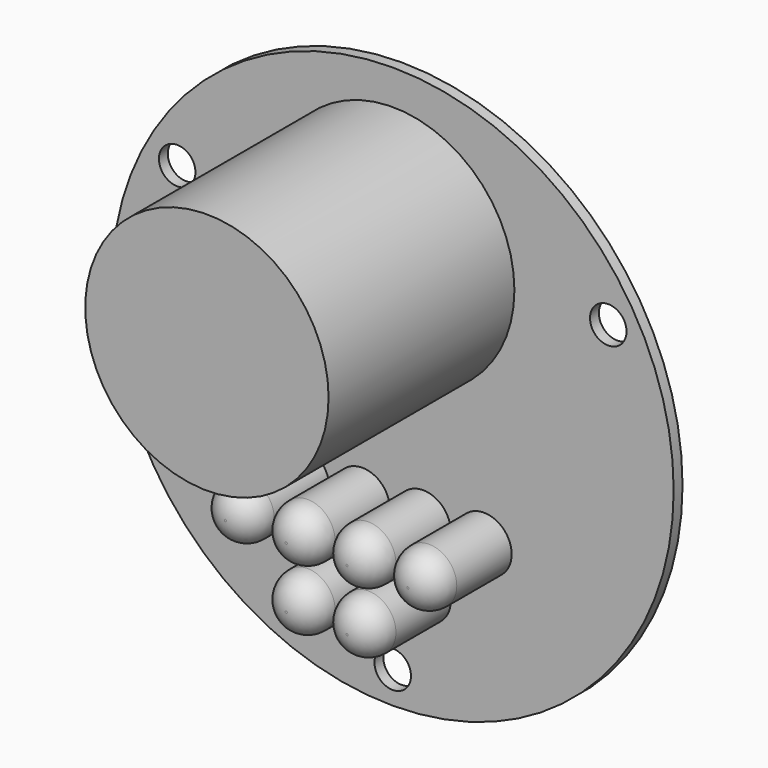
from build123d import *

# Parameters (mm, degrees)
F0_R      = 25.4
F1_DEPTH  = 1
F2_R      = 1.65
F3_DEPTH  = 1.001
F4_R      = 11
F5_DEPTH  = 21
F6_R      = 2.5
F7_DEPTH  = 8.6
F8_R      = 2.4
F9_W      = 15.24
F9_H      = 2.54
F10_DEPTH = 8.6


with BuildPart() as f1:
    # F0 (on Front) → F1 (new body)
    with BuildSketch(Plane.XZ):
        Circle(F0_R)
    extrude(amount=F1_DEPTH)

    # F2 (on face) → F3 (cut, through all)
    with BuildSketch(Plane.XZ.offset(1)):
        with Locations((-19.485572, 11.25)):
            Circle(F2_R)
        with Locations((0, -22.5)):
            Circle(F2_R)
        with Locations((19.485572, 11.25)):
            Circle(F2_R)
    extrude(amount=-F3_DEPTH, mode=Mode.SUBTRACT)

    # F4 (on face) → F5 (join)
    with BuildSketch(Plane.XZ.offset(1)):
        with Locations((0, 11.25)):
            Circle(F4_R)
    extrude(amount=F5_DEPTH)

    # F6 (on face) → F7 (join)
    with BuildSketch(Plane.XZ.offset(1)):
        with Locations((-8.25, -9.85)):
            Circle(F6_R)
        with Locations((-2.75, -15.35)):
            Circle(F6_R)
        with Locations((-2.75, -9.85)):
            Circle(F6_R)
        with Locations((2.75, -15.35)):
            Circle(F6_R)
        with Locations((8.25, -9.85)):
            Circle(F6_R)
        with Locations((2.75, -9.85)):
            Circle(F6_R)
    extrude(amount=F7_DEPTH)

    # F8
    f8_edges = [f1.edges().sort_by_distance(p)[0] for p in [
        (-10.75, -9.6, -9.85),
        (-5.25, -9.6, -9.85),
        (0.25, -9.6, -9.85),
        (5.75, -9.6, -9.85),
        (0.25, -9.6, -15.35),
        (-5.25, -9.6, -15.35),
    ]]
    fillet(f8_edges, radius=F8_R)

    # F9 (on face) → F10 (join)
    with BuildSketch(Plane(origin=(0, 0, 0), x_dir=(-1, 0, 0), z_dir=(0, 1, 0))):
        with Locations((0, -16.58)):
            Rectangle(F9_W, F9_H)
    extrude(amount=F10_DEPTH)


solid = f1.part
